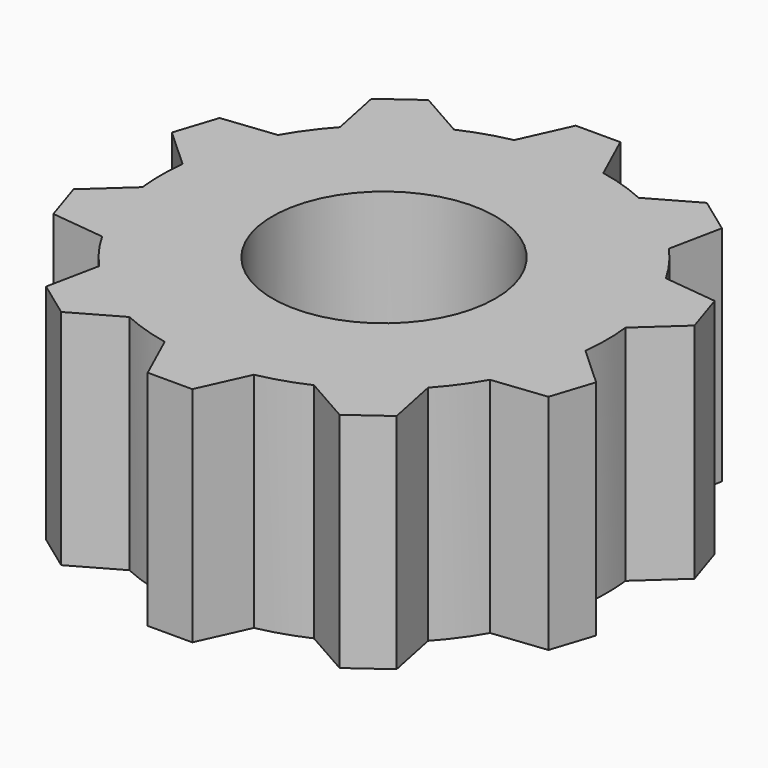
from build123d import *

# Parameters (mm, degrees)
F0_R     = 2.5
F1_DEPTH = 5


with BuildPart() as f1:
    # F0 (on Top) → F1 (new body)
    with BuildSketch(Plane.XY):
        with BuildLine():
            Line((-5.860848, 1.378574), (-4.968223, 0.562811))
            ThreePointArc((-4.968223, 0.562811), (-5, 0), (-4.968223, -0.562811))
            Line((-4.968223, -0.562811), (-5.860848, -1.378574))
            Line((-5.860848, -1.378574), (-5.551831, -2.32963))
            Line((-5.551831, -2.32963), (-4.350189, -2.464924))
            ThreePointArc((-4.350189, -2.464924), (-4.045085, -2.938926), (-3.688565, -3.375572))
            Line((-3.688565, -3.375572), (-3.93122, -4.560209))
            Line((-3.93122, -4.560209), (-3.122203, -5.147995))
            Line((-3.122203, -5.147995), (-2.070531, -4.551143))
            ThreePointArc((-2.070531, -4.551143), (-1.545085, -4.755283), (-1, -4.898979))
            Line((-1, -4.898979), (-0.5, -6))
            Line((-0.5, -6), (0.5, -6))
            Line((0.5, -6), (1, -4.898979))
            ThreePointArc((1, -4.898979), (1.545085, -4.755283), (2.070531, -4.551143))
            Line((2.070531, -4.551143), (3.122203, -5.147995))
            Line((3.122203, -5.147995), (3.93122, -4.560209))
            Line((3.93122, -4.560209), (3.688565, -3.375572))
            ThreePointArc((3.688565, -3.375572), (4.045085, -2.938926), (4.350189, -2.464924))
            Line((4.350189, -2.464924), (5.551831, -2.32963))
            Line((5.551831, -2.32963), (5.860848, -1.378574))
            Line((5.860848, -1.378574), (4.968223, -0.562811))
            ThreePointArc((4.968223, -0.562811), (5, 0), (4.968223, 0.562811))
            Line((4.968223, 0.562811), (5.860848, 1.378574))
            Line((5.860848, 1.378574), (5.551831, 2.32963))
            Line((5.551831, 2.32963), (4.350189, 2.464924))
            ThreePointArc((4.350189, 2.464924), (4.045085, 2.938926), (3.688565, 3.375572))
            Line((3.688565, 3.375572), (3.93122, 4.560209))
            Line((3.93122, 4.560209), (3.122203, 5.147995))
            Line((3.122203, 5.147995), (2.070531, 4.551143))
            ThreePointArc((2.070531, 4.551143), (1.545085, 4.755283), (1, 4.898979))
            Line((1, 4.898979), (0.5, 6))
            Line((0.5, 6), (-0.5, 6))
            Line((-0.5, 6), (-1, 4.898979))
            ThreePointArc((-1, 4.898979), (-1.545085, 4.755283), (-2.070531, 4.551143))
            Line((-2.070531, 4.551143), (-3.122203, 5.147995))
            Line((-3.122203, 5.147995), (-3.93122, 4.560209))
            Line((-3.93122, 4.560209), (-3.688565, 3.375572))
            ThreePointArc((-3.688565, 3.375572), (-4.045085, 2.938926), (-4.350189, 2.464924))
            Line((-4.350189, 2.464924), (-5.551831, 2.32963))
            Line((-5.551831, 2.32963), (-5.860848, 1.378574))
        make_face()
        Circle(F0_R, mode=Mode.SUBTRACT)
    extrude(amount=F1_DEPTH)


solid = f1.part
